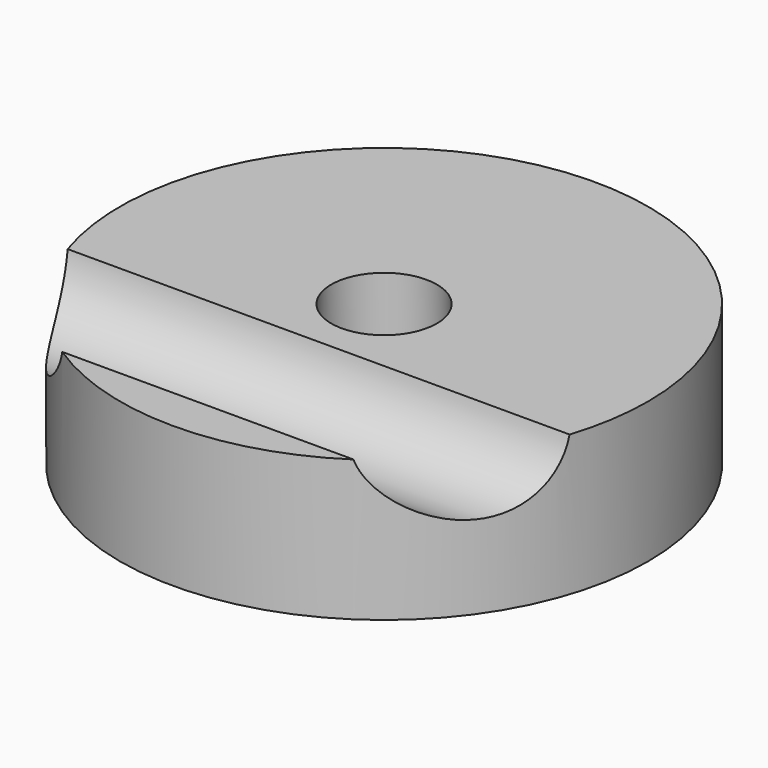
from build123d import *

# Parameters (mm, degrees)
CYLINDER001_R           = 4
CYLINDER001_DEPTH       = 70
CYLINDER001_PITCH_ANGLE = 90
CYLINDER_R              = 15
CYLINDER_DEPTH          = 8
SKETCH_R                = 3
POCKET_DEPTH            = 8.001
POCKET001_DEPTH         = 4


with BuildPart() as cylinder001:
    # Cylinder001 → Cylinder001 (new body)
    with BuildSketch(Plane.XY):
        Circle(CYLINDER001_R)
    extrude(amount=CYLINDER001_DEPTH)


with BuildPart() as cylinder001_1:
    # Cylinder001 pitch: moved
    add(cylinder001.part.rotate(Axis((0, 0, 0), (0, 1, 0)), CYLINDER001_PITCH_ANGLE))


with BuildPart() as cylinder001_2:
    # Cylinder001 placement: moved
    add(cylinder001_1.part.moved(Location((-35.24, -8.5813, 8.7367))))


with BuildPart() as pocket001:
    # Cylinder → Cylinder (new body)
    with BuildSketch(Plane.XY):
        Circle(CYLINDER_R)
    extrude(amount=CYLINDER_DEPTH)

    # Sketch → Pocket (cut, through all)
    with BuildSketch(Plane.XY.offset(8)):
        Circle(SKETCH_R)
    extrude(amount=-POCKET_DEPTH, mode=Mode.SUBTRACT)

    # Cut: cut Cylinder001
    add(cylinder001_2.part, mode=Mode.SUBTRACT)

    # Sketch001 → Pocket001 (cut)
    with BuildSketch(Plane(origin=(0, 0, 0), x_dir=(1, 0, 0), z_dir=(0, 0, -1))):
        Polygon((3.464102, -6), (6.928203, 0), (3.464102, 6), (-3.464102, 6), (-6.928203, 0), (-3.464102, -6), align=None)
    extrude(amount=-POCKET001_DEPTH, mode=Mode.SUBTRACT)


solid = pocket001.part
